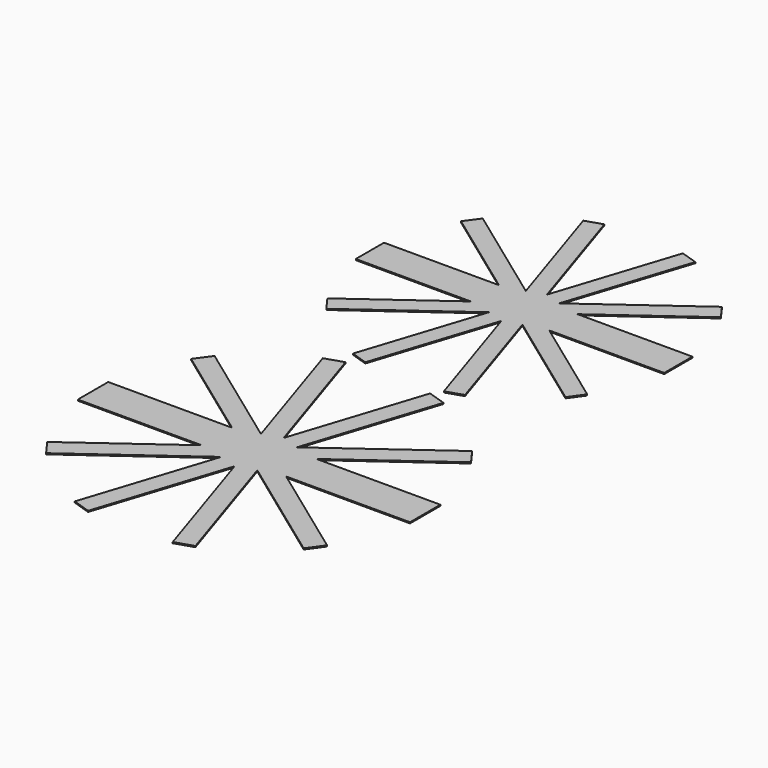
from build123d import *

# Parameters (mm, degrees)
F1_DEPTH = 1.5875


with BuildPart() as f1:
    # F0 (on Top) → F1 (new body)
    with BuildSketch(Plane.XY):
        Polygon((-1958.55529, -1317.624517), (-2106.727333, -1425.27782), (-2050.130647, -1251.091122), (-2074.287469, -1243.242091), (-2130.884156, -1417.428788), (-2187.480842, -1243.242091), (-2211.63769, -1251.091122), (-2155.041004, -1425.27782), (-2303.213047, -1317.624517), (-2318.142786, -1338.173549), (-2187.450794, -1433.126852), (-2353.121456, -1433.126852), (-2353.121456, -1458.526852), (-2353.121456, -1483.926852), (-2187.450794, -1483.926852), (-2318.142786, -1578.880129), (-2303.213047, -1599.429161), (-2155.041004, -1491.775884), (-2211.63769, -1665.962556), (-2187.480842, -1673.811588), (-2130.884156, -1499.624915), (-2074.287469, -1673.811588), (-2050.130647, -1665.962556), (-2106.727333, -1491.775884), (-1958.55529, -1599.429161), (-1943.625551, -1578.880129), (-2074.317543, -1483.926852), (-1908.646856, -1483.926852), (-1908.646856, -1458.526852), (-1908.646856, -1433.126852), (-2074.317543, -1433.126852), (-1943.625551, -1338.173549), align=None)
        Polygon((-1958.477744, -1767.676576), (-2118.047631, -1883.610863), (-2057.097359, -1696.025234), (-2083.112395, -1687.572419), (-2144.062666, -1875.158073), (-2205.012938, -1687.572419), (-2231.027999, -1696.025234), (-2170.077727, -1883.610863), (-2329.647614, -1767.676576), (-2345.725789, -1789.806301), (-2204.980579, -1892.063678), (-2383.395132, -1892.063678), (-2383.395132, -1919.417523), (-2383.395132, -1946.771367), (-2204.980579, -1946.771367), (-2345.725789, -2049.028744), (-2329.647614, -2071.158469), (-2170.077727, -1955.224157), (-2231.027999, -2142.809811), (-2205.012938, -2151.262627), (-2144.062666, -1963.676972), (-2083.112395, -2151.262627), (-2057.097359, -2142.809811), (-2118.047631, -1955.224157), (-1958.477744, -2071.158469), (-1942.399544, -2049.028744), (-2083.14478, -1946.771367), (-1904.730227, -1946.771367), (-1904.730227, -1919.417523), (-1904.730227, -1892.063678), (-2083.14478, -1892.063678), (-1942.399544, -1789.806301), align=None)
    extrude(amount=F1_DEPTH)


solid = f1.part
